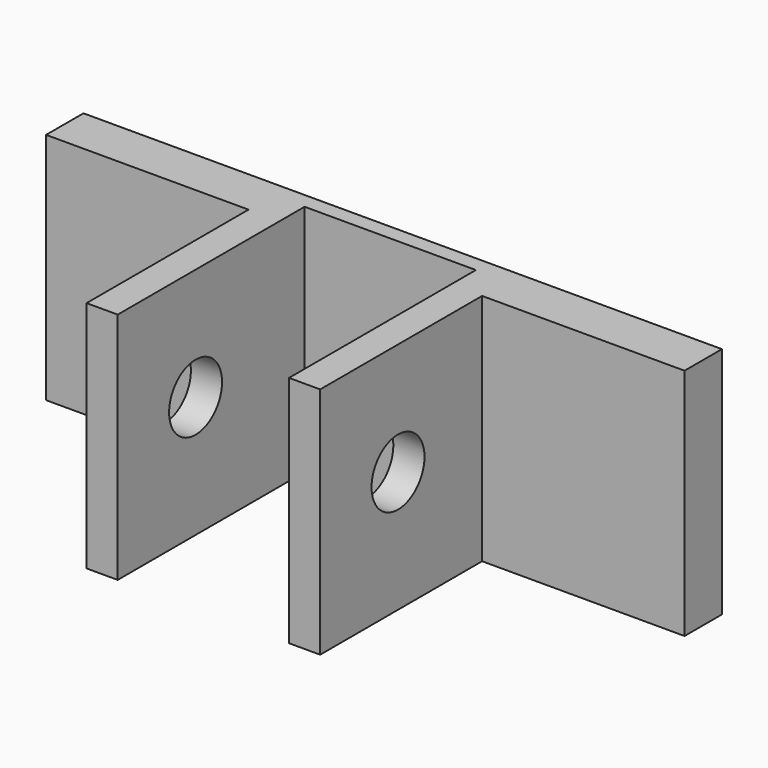
from build123d import *

# Parameters (mm, degrees)
F1_DEPTH      = 30
F2_R          = 4.25
F3_DEPTH      = 41.001
F3_DEPTH_BACK = 41.001


with BuildPart() as f1:
    # F0 (on Top) → F1 (new body)
    with BuildSketch(Plane.XY):
        Polygon((11, 30), (11, 0), (15, 0), (15, 26), (41, 26), (41, 30), align=None)
        Polygon((-11, 30), (11, 30), (41, 30), (41, 32), (-41, 32), (-41, 30), align=None)
        Polygon((-11, 0), (-11, 30), (-41, 30), (-41, 26), (-15, 26), (-15, 0), align=None)
    extrude(amount=F1_DEPTH)

    # F2 (on Right) → F3 (cut, two sides)
    with BuildSketch(Plane.YZ) as f3_sk:
        with Locations((12.5, 15.5769230769)):
            Circle(F2_R)
    extrude(amount=-F3_DEPTH, mode=Mode.SUBTRACT)
    extrude(f3_sk.sketch, amount=F3_DEPTH_BACK, mode=Mode.SUBTRACT)


solid = f1.part
